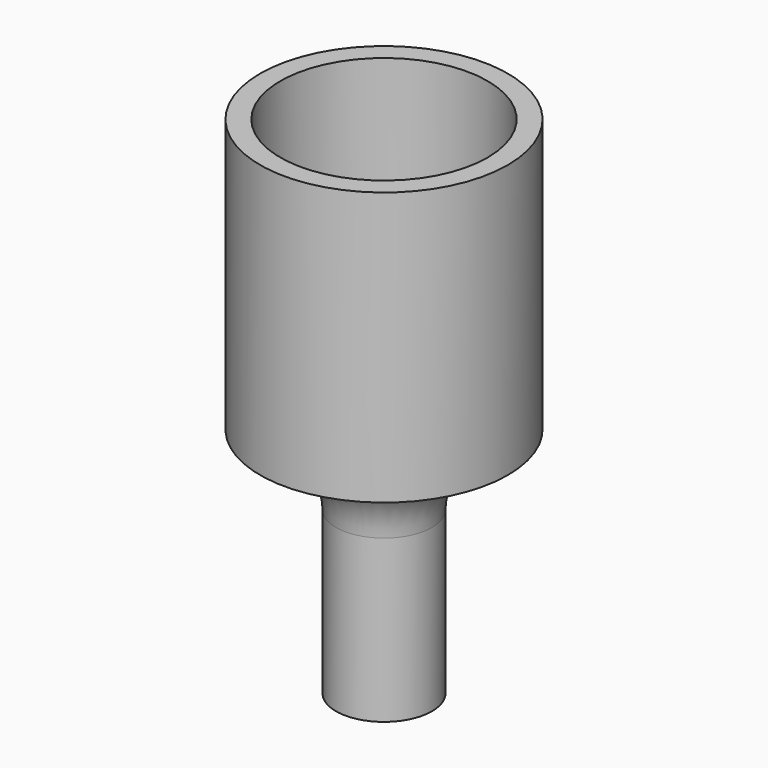
from build123d import *

# Parameters (mm, degrees)
F0_R     = 12.25
F0_R_2   = 10.25
F1_DEPTH = 25
F0_R_3   = 4.75
F0_R_4   = 3.25
F2_DEPTH = 2
F3_DEPTH = 25
F4_R     = 7
F5_R     = 5


with BuildPart() as f1:
    # F0 (on Top) → F1 (new body)
    with BuildSketch(Plane.XY):
        Circle(F0_R)
        Circle(F0_R_2, mode=Mode.SUBTRACT)
    extrude(amount=F1_DEPTH)

    # F0 (on Top) → F2 (join)
    with BuildSketch(Plane.XY):
        Circle(F0_R)
        Circle(F0_R_2, mode=Mode.SUBTRACT)
        Circle(F0_R_2)
        Circle(F0_R_3, mode=Mode.SUBTRACT)
        Circle(F0_R_3)
        Circle(F0_R_4, mode=Mode.SUBTRACT)
    extrude(amount=-F2_DEPTH)

    # F0 (on Top) → F3 (join)
    with BuildSketch(Plane.XY):
        Circle(F0_R_3)
        Circle(F0_R_4, mode=Mode.SUBTRACT)
    extrude(amount=-F3_DEPTH)

    # F4
    f4_edges = [f1.edges().sort_by_distance(p)[0] for p in [
        (-4.75, 0, -2),
    ]]
    fillet(f4_edges, radius=F4_R)

    # F5
    f5_edges = [f1.edges().sort_by_distance(p)[0] for p in [
        (-3.25, 0, 0),
    ]]
    fillet(f5_edges, radius=F5_R)


solid = f1.part
